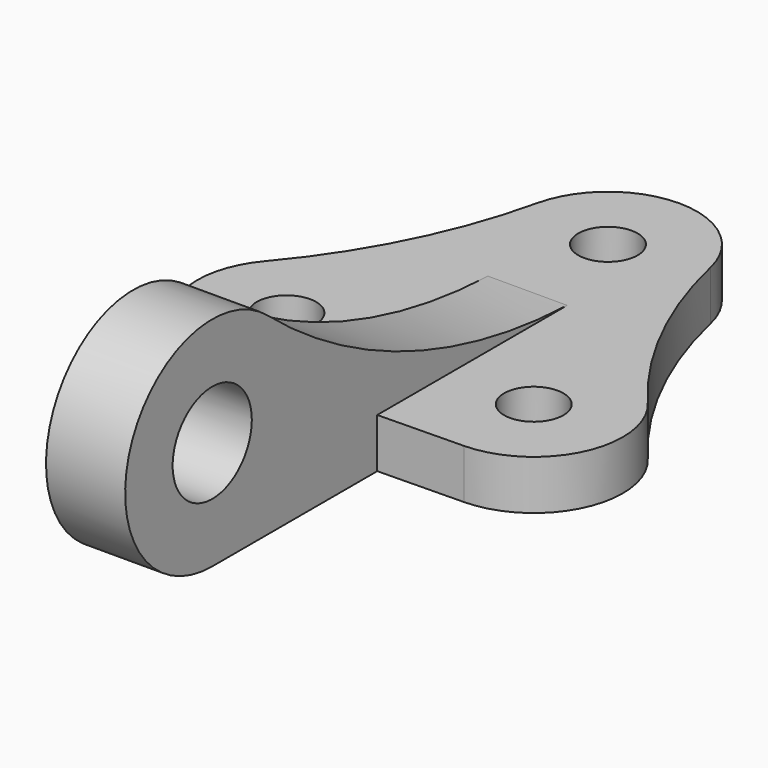
from build123d import *

# Parameters (mm, degrees)
F0_R     = 6
F1_DEPTH = 10
F2_R     = 10
F3_DEPTH = 8


with BuildPart() as f1:
    # F0 (on Top) → F1 (new body)
    with BuildSketch(Plane.XY):
        with BuildLine():
            ThreePointArc((38.734728, 11.634313), (25.596054, 31.548027), (17.548287, 54.007195))
            ThreePointArc((17.548287, 54.007195), (11.222088, 64.073548), (0, 68))
            ThreePointArc((0, 68), (-11.222088, 64.073548), (-17.548287, 54.007195))
            ThreePointArc((-17.548287, 54.007195), (-25.596054, 31.548027), (-38.734728, 11.634313))
            ThreePointArc((-38.734728, 11.634313), (-41.397779, -7.423802), (-25.319605, -17.997162))
            Line((-25.319605, -17.997162), (0, -18.446804))
            Line((0, -18.446804), (25.319605, -17.997162))
            ThreePointArc((25.319605, -17.997162), (41.397779, -7.423802), (38.734728, 11.634313))
        make_face()
        with Locations((-25, 0)):
            Circle(F0_R, mode=Mode.SUBTRACT)
        with Locations((25, 0)):
            Circle(F0_R, mode=Mode.SUBTRACT)
        with Locations((0, 50)):
            Circle(F0_R, mode=Mode.SUBTRACT)
    extrude(amount=F1_DEPTH)

    # F2 (on Right) → F3 (join, symmetric)
    with BuildSketch(Plane.YZ):
        with BuildLine():
            ThreePointArc((29.683312, 10), (-10.519362, 18.162179), (-45.914662, 38.8998))
            ThreePointArc((-45.914662, 38.8998), (-80.685691, 29.49014), (-60, 0))
            Line((-60, 0), (42.007195, 0))
            Line((42.007195, 0), (42.007195, 10))
            Line((42.007195, 10), (29.683312, 10))
        make_face()
        with Locations((-60, 22)):
            Circle(F2_R, mode=Mode.SUBTRACT)
    extrude(amount=F3_DEPTH, both=True)


solid = f1.part
